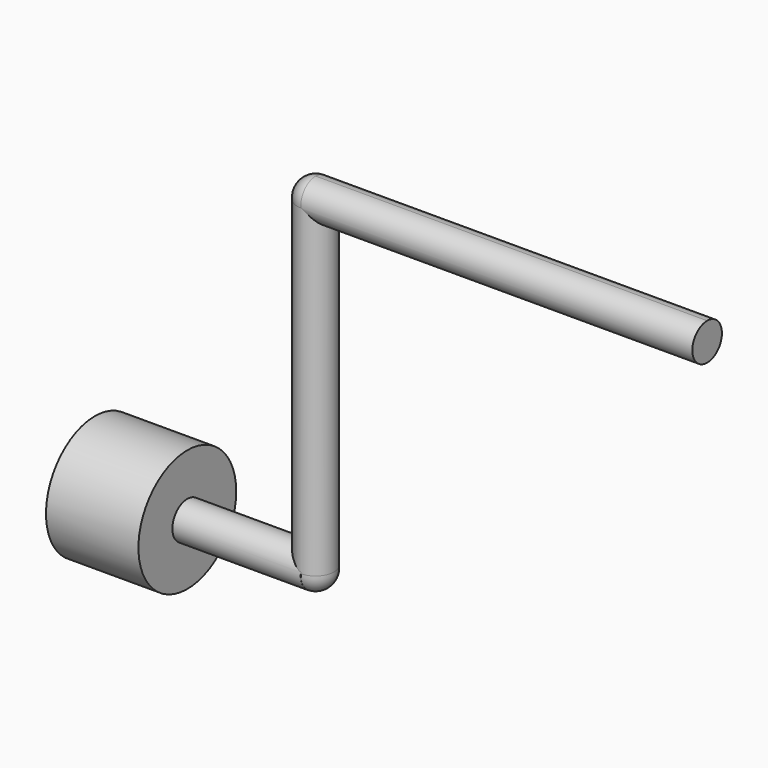
from build123d import *

# Parameters (mm, degrees)
F3_DEPTH  = 91.44
F6_R      = 4.2867636814
F7_DEPTH  = 76.2
F9_R      = 4.3700650399
F14_DEPTH = 29.972
F13_R     = 14.2738444306
F15_DEPTH = 21.59
F16_D     = 19.05
F16_DEPTH = 18.288
F16_TIP   = 5.7231973962


with BuildPart() as f3:
    # F0 (on Right) → F3 (new body)
    with BuildSketch(Plane.YZ):
        with BuildLine():
            ThreePointArc((0, 40.9521651562), (3.0523323842, 42.2164826266), (4.3166498546, 45.2688150108))
            ThreePointArc((4.3166498546, 45.2688150108), (3.0523323842, 48.321147395), (0, 49.5854648654))
            Line((0, 49.5854648654), (0, 40.9521651562))
        make_face()
        with BuildLine():
            Line((0, 40.9521651562), (0, 49.5854648654))
            ThreePointArc((0, 49.5854648654), (-4.3166498546, 45.2688150108), (0, 40.9521651562))
        make_face()
    extrude(amount=F3_DEPTH)



with BuildPart() as f4:
    # F0 (on Right) → F4 (revolve)
    with BuildSketch(Plane.YZ):
        with BuildLine():
            Line((0, 40.9521651562), (0, 49.5854648654))
            ThreePointArc((0, 49.5854648654), (-4.3166498546, 45.2688150108), (0, 40.9521651562))
        make_face()
    revolve(axis=Axis((0, 0, 45.2688150108), (0, 0, 1)))


with BuildPart() as f7:
    # F6 (on offset) → F7 (new body)
    with BuildSketch(Plane.XY.offset(45.26788)):
        Circle(F6_R)
    extrude(amount=-F7_DEPTH)


with BuildPart() as f8_1:
    # F8: copy of F4
    add(f4.part.moved(Location((0, 0, -76.2))))


with BuildPart() as f14:
    # F9 (on Right) → F14 (new body)
    with BuildSketch(Plane.YZ):
        with Locations((0.0073989029, -30.8914642022)):
            Circle(F9_R)
    extrude(amount=-F14_DEPTH)


with BuildPart() as f3_1:
    add(f3.part)

    add(f4.part)  # F15 merges F4

    add(f7.part)  # F15 merges F7

    add(f8_1.part)  # F15 merges F8_1

    add(f14.part)  # F15 merges F14
    # F13 (on offset) → F15 (join)
    with BuildSketch(Plane.YZ.offset(-29.972)):
        with Locations((0, -30.7933222502)):
            Circle(F13_R)
    extrude(amount=-F15_DEPTH)

    # F16
    with Locations(Plane(origin=(-51.562, 0, 0), x_dir=(0, 1, 0), z_dir=(-1, 0, 0))):
        with Locations((0, 30.8683142066)):
            Hole(F16_D / 2, depth=F16_DEPTH)
            with Locations((0, 0, -(F16_DEPTH + F16_TIP / 2))):  # 118° drill point
                Cone(0, F16_D / 2, F16_TIP, mode=Mode.SUBTRACT)


solid = f3_1.part
